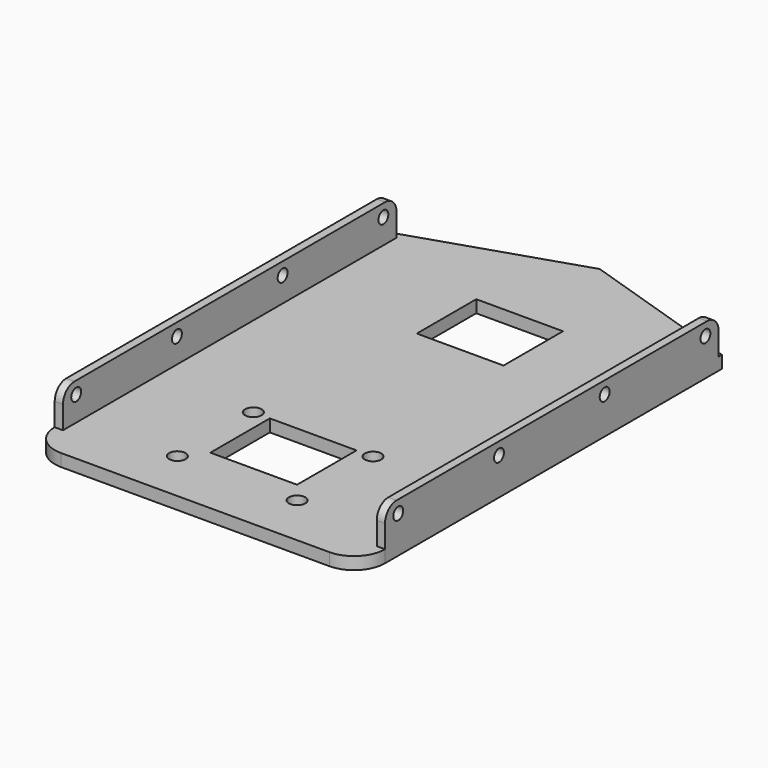
from build123d import *

# Parameters (mm, degrees)
PAD_DEPTH       = 3
SKETCH001_R     = 1.5
PAD001_DEPTH    = 80
SKETCH002_W     = 76
SKETCH002_H     = 10
POCKET_DEPTH    = 700
SKETCH003_R     = 2
SKETCH003_W     = 21
SKETCH003_H     = 18
POCKET001_DEPTH = 5


with BuildPart() as part:
    # Sketch → Pad (new body)
    with BuildSketch(Plane.XY):
        with BuildLine():
            Line((-40, 0), (-40, -85))
            ThreePointArc((-40, -85), (-37.803301, -90.303301), (-32.5, -92.5))
            Line((-32.5, -92.5), (32.5, -92.5))
            ThreePointArc((32.5, -92.5), (37.803301, -90.303301), (40, -85))
            Line((40, 0), (40, -85))
            Line((40, 0), (40, 17))
            Line((0, 30), (40, 17))
            Line((-40, 17), (0, 30))
            Line((-40, 0), (-40, 17))
        make_face()
    extrude(amount=PAD_DEPTH)

    # Sketch001 (on Face6 of Pad) → Pad001 (join)
    with BuildSketch(Plane.YZ.offset(40)):
        with BuildLine():
            Line((-81.5, 12), (12.5, 12))
            ThreePointArc((16, 8.5), (14.974874, 10.974874), (12.5, 12))
            Line((16, 8.5), (16, 0))
            Line((16, 0), (-85, 0))
            Line((-85, 0), (-85, 8.5))
            ThreePointArc((-81.5, 12), (-83.974874, 10.974874), (-85, 8.5))
        make_face()
        with Locations((-81, 9)):
            Circle(SKETCH001_R, mode=Mode.SUBTRACT)
        with Locations((-50.5, 9)):
            Circle(SKETCH001_R, mode=Mode.SUBTRACT)
        with Locations((-18.5, 9)):
            Circle(SKETCH001_R, mode=Mode.SUBTRACT)
        with Locations((12, 9)):
            Circle(SKETCH001_R, mode=Mode.SUBTRACT)
    extrude(amount=-PAD001_DEPTH)

    # Sketch002 (on Face7 of Pad001) → Pocket (cut)
    with BuildSketch(Plane.XZ.offset(92.5)):
        with Locations((0, 8)):
            Rectangle(SKETCH002_W, SKETCH002_H)
    extrude(amount=-POCKET_DEPTH, mode=Mode.SUBTRACT)

    # Sketch003 (on Face4 of Pocket) → Pocket001 (cut)
    with BuildSketch(Plane(origin=(0, 0, 0), x_dir=(1, 0, 0), z_dir=(0, 0, -1))):
        with Locations((14.5, 79.75)):
            Circle(SKETCH003_R)
        with Locations((-14.5, 79.75)):
            Circle(SKETCH003_R)
        with Locations((-14.5, 56.75)):
            Circle(SKETCH003_R)
        with Locations((14.5, 56.75)):
            Circle(SKETCH003_R)
        with Locations((0, 65.75)):
            Rectangle(SKETCH003_W, SKETCH003_H)
        with Locations((0, 3.25)):
            Rectangle(SKETCH003_W, SKETCH003_H)
    extrude(amount=-POCKET001_DEPTH, mode=Mode.SUBTRACT)


solid = part.part
